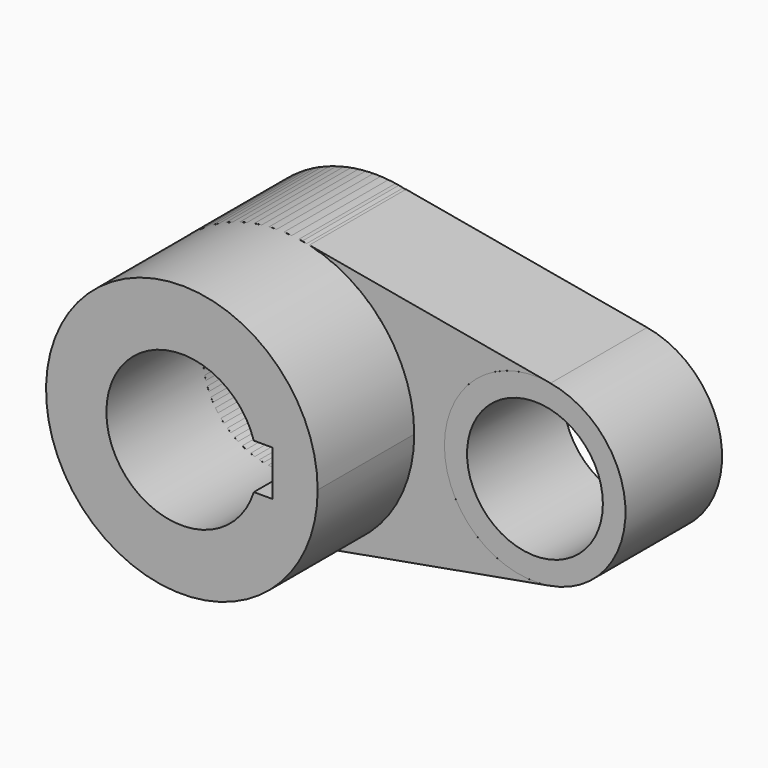
from build123d import *

# Parameters (mm, degrees)
F0_R     = 14.2875
F1_DEPTH = 25.4
F2_DEPTH = 50.8


with BuildPart() as f1:
    # F0 (on Front) → F1 (new body)
    with BuildSketch(Plane.XZ):
        with BuildLine():
            ThreePointArc((28.575, 0), (21.916025, 18.336262), (5.042647, 28.126541))
            ThreePointArc((5.042647, 28.126541), (-28.575, 0), (5.042647, -28.126541))
            ThreePointArc((5.042647, -28.126541), (21.916025, -18.336262), (28.575, 0))
        make_face()
        with BuildLine():
            ThreePointArc((-15.143785, 4.7625), (0, 15.875), (15.143785, 4.7625))
            Line((15.143785, 4.7625), (19.05, 4.7625))
            Line((19.05, 4.7625), (19.05, -4.7625))
            Line((19.05, -4.7625), (15.143785, -4.7625))
            ThreePointArc((15.143785, -4.7625), (0, -15.875), (-15.143785, -4.7625))
            Line((-15.143785, -4.7625), (-19.05, -4.7625))
            Line((-19.05, -4.7625), (-19.05, 4.7625))
            Line((-19.05, 4.7625), (-15.143785, 4.7625))
        make_face(mode=Mode.SUBTRACT)
        with BuildLine():
            ThreePointArc((-15.143785, -4.7625), (-15.875, 0), (-15.143785, 4.7625))
            Line((-15.143785, 4.7625), (-19.05, 4.7625))
            Line((-19.05, 4.7625), (-19.05, -4.7625))
            Line((-19.05, -4.7625), (-15.143785, -4.7625))
        make_face()
        with BuildLine():
            Line((57.243796, 18.767696), (6.523655, 27.86102))
            ThreePointArc((6.523655, 27.86102), (22.3951, 17.765826), (28.575, 0))
            ThreePointArc((28.575, 0), (22.3951, -17.765826), (6.523655, -27.86102))
            Line((6.523655, -27.86102), (57.243796, -18.767696))
            ThreePointArc((57.243796, -18.767696), (41.714637, -14.580422), (34.925, 4e-06))
            ThreePointArc((34.925, 4e-06), (41.71464, 14.580425), (57.243796, 18.767696))
        make_face()
        with BuildLine():
            ThreePointArc((73.025, 0), (53.975002, 19.05), (34.925, 4e-06))
            ThreePointArc((34.925, 4e-06), (53.974998, -19.05), (73.025, 0))
        make_face()
        with Locations((53.975, 0)):
            Circle(F0_R, mode=Mode.SUBTRACT)
    extrude(amount=F1_DEPTH)


with BuildPart() as f2:
    # F1_face (on face) → F2 (new body)
    with BuildSketch(Plane(origin=(-0.324025, 0, 0), x_dir=(1, 0, 0), z_dir=(0, 1, 0))):
        with BuildLine():
            ThreePointArc((28.899025, 7e-06), (22.240047, 18.336264), (5.366672, 28.126541))
            ThreePointArc((5.366672, 28.126541), (-21.591998, -18.336264), (28.899025, 7e-06))
        make_face()
        with BuildLine():
            ThreePointArc((15.467809, -4.7625), (-15.550975, 0), (15.467809, 4.7625))
            Line((15.467809, 4.7625), (19.374025, 4.7625))
            Line((19.374025, 4.7625), (19.374025, -4.7625))
            Line((19.374025, -4.7625), (15.467809, -4.7625))
        make_face(mode=Mode.SUBTRACT)
    extrude(amount=-F2_DEPTH)


solid = Compound([f1.part, f2.part])
